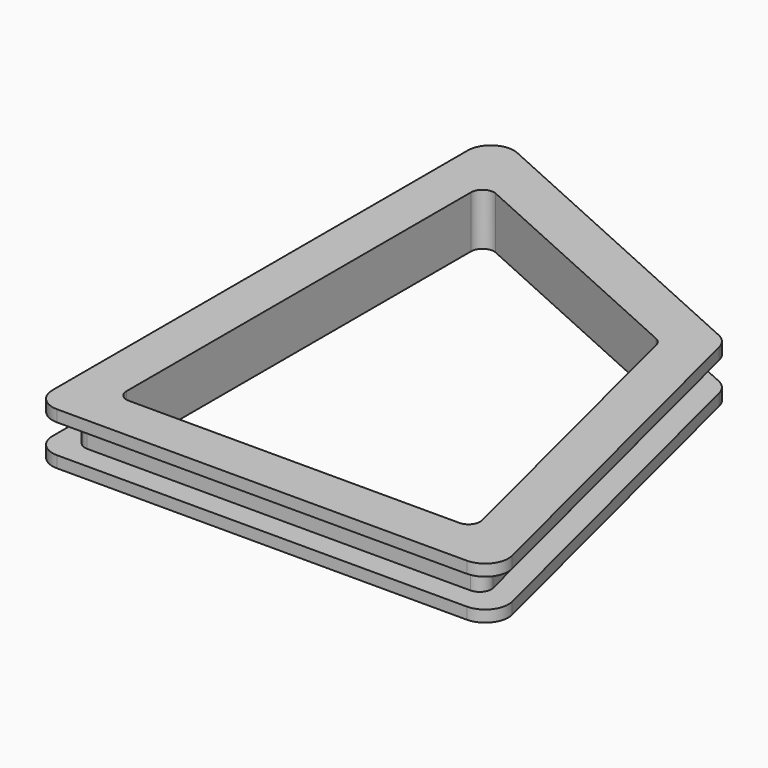
from build123d import *

# Parameters (mm, degrees)
F2_DEPTH = 2.5
F3_DEPTH = 1
F5_DEPTH = 1
F7_DEPTH = 4.5


with BuildPart() as f2:
    # F1 (on Top) → F2 (new body)
    with BuildSketch(Plane.XY):
        with BuildLine():
            ThreePointArc((9.411918, 9.106117), (9.209323, 9.504574), (8.853362, 9.774952))
            Line((8.853362, 9.774952), (-16.588413, 21.264786))
            ThreePointArc((-16.588413, 21.264786), (-17.542408, 21.193531), (-18, 20.353416))
            Line((-18, 20.353416), (-18, -22))
            ThreePointArc((-18, -22), (-17.707107, -22.707107), (-17, -23))
            Line((-17, -23), (16.157671, -23))
            ThreePointArc((16.157671, -23), (16.945876, -22.615412), (17.127813, -21.757464))
            Line((17.127813, -21.757464), (9.411918, 9.106117))
        make_face()
    extrude(amount=F2_DEPTH)

    # F0 (on Top) → F3 (join)
    with BuildSketch(Plane.XY):
        with BuildLine():
            Line((-18, -25), (17.438447, -25))
            ThreePointArc((17.438447, -25), (19.014858, -24.230824), (19.378732, -22.514929))
            Line((19.378732, -22.514929), (11.234802, 10.060792))
            ThreePointArc((11.234802, 10.060792), (10.829612, 10.857706), (10.11769, 11.398462))
            Line((10.11769, 11.398462), (-17.176827, 23.725018))
            ThreePointArc((-17.176827, 23.725018), (-19.084816, 23.582507), (-20, 21.902277))
            Line((-20, 21.902277), (-20, -23))
            ThreePointArc((-20, -23), (-19.414214, -24.414214), (-18, -25))
        make_face()
    extrude(amount=-F3_DEPTH)

    # F4 (on face) → F5 (join)
    with BuildSketch(Plane.XY.offset(2.5)):
        with BuildLine():
            Line((19.378732, -22.514929), (11.234802, 10.060792))
            ThreePointArc((11.234802, 10.060792), (10.829612, 10.857706), (10.11769, 11.398462))
            Line((10.11769, 11.398462), (-17.176827, 23.725018))
            ThreePointArc((-17.176827, 23.725018), (-19.084816, 23.582507), (-20, 21.902277))
            Line((-20, 21.902277), (-20, -23))
            ThreePointArc((-20, -23), (-19.414214, -24.414214), (-18, -25))
            Line((-18, -25), (17.438447, -25))
            ThreePointArc((17.438447, -25), (19.014858, -24.230824), (19.378732, -22.514929))
        make_face()
        with BuildLine():
            ThreePointArc((8.853362, 9.774952), (9.209323, 9.504574), (9.411918, 9.106117))
            Line((9.411918, 9.106117), (17.127813, -21.757464))
            ThreePointArc((17.127813, -21.757464), (16.945876, -22.615412), (16.157671, -23))
            Line((16.157671, -23), (-17, -23))
            ThreePointArc((-17, -23), (-17.707107, -22.707107), (-18, -22))
            Line((-18, -22), (-18, 20.353416))
            ThreePointArc((-18, 20.353416), (-17.542408, 21.193531), (-16.588413, 21.264786))
            Line((-16.588413, 21.264786), (8.853362, 9.774952))
        make_face(mode=Mode.SUBTRACT)
        with BuildLine():
            Line((17.127813, -21.757464), (9.411918, 9.106117))
            ThreePointArc((9.411918, 9.106117), (9.209323, 9.504574), (8.853362, 9.774952))
            Line((8.853362, 9.774952), (-16.588413, 21.264786))
            ThreePointArc((-16.588413, 21.264786), (-17.542408, 21.193531), (-18, 20.353416))
            Line((-18, 20.353416), (-18, -22))
            ThreePointArc((-18, -22), (-17.707107, -22.707107), (-17, -23))
            Line((-17, -23), (16.157671, -23))
            ThreePointArc((16.157671, -23), (16.945876, -22.615412), (17.127813, -21.757464))
        make_face()
    extrude(amount=F5_DEPTH)

    # F6 (on face) → F7 (cut)
    with BuildSketch(Plane.XY.offset(3.5)):
        with BuildLine():
            ThreePointArc((13.596118, -21), (14.384323, -20.615412), (14.56626, -19.757464))
            Line((14.56626, -19.757464), (7.706434, 7.681839))
            ThreePointArc((7.706434, 7.681839), (7.503839, 8.080295), (7.147879, 8.350674))
            Line((7.147879, 8.350674), (-14.588414, 18.167064))
            ThreePointArc((-14.588414, 18.167064), (-15.542409, 18.095808), (-16.000001, 17.255693))
            Line((-16.000001, 17.255693), (-16.000001, -20))
            ThreePointArc((-16.000001, -20), (-15.707107, -20.707107), (-15.000001, -21))
            Line((-15.000001, -21), (13.596118, -21))
        make_face()
    extrude(amount=-F7_DEPTH, mode=Mode.SUBTRACT)


solid = f2.part
